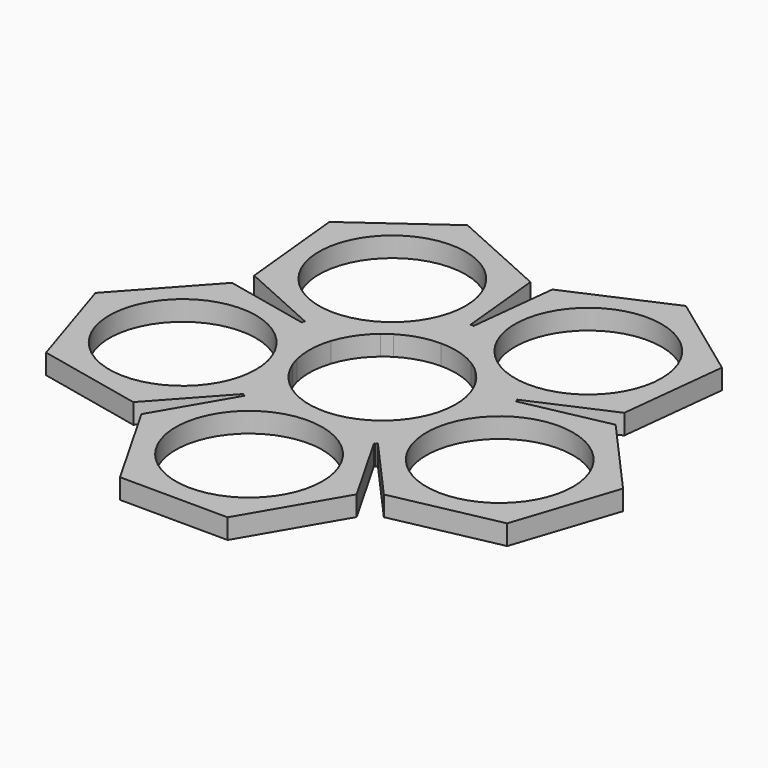
from build123d import *

# Parameters (mm, degrees)
F0_R     = 11
F1_DEPTH = 3


with BuildPart() as f1:
    # F0 (on Top) → F1 (new body)
    with BuildSketch(Plane.XY):
        Polygon((9.692502, -13.691952), (9.947785, -13.691952), (10.0425, -13.400449), (18.702897, -23.105726), (34.559387, -19.809369), (39.632903, -4.429067), (28.849928, 7.654877), (16.016968, 4.987071), (16.095854, 5.22986), (15.847887, 5.410019), (27.754365, 10.64745), (29.519267, 26.746499), (16.459534, 36.324473), (1.634898, 29.803399), (0.206528, 16.774131), (0, 16.924183), (-0.247967, 16.744024), (-1.549757, 29.686213), (-16.315477, 36.339614), (-29.460351, 26.878826), (-27.839506, 10.764637), (-15.889326, 5.379912), (-16.095854, 5.22986), (-16.001139, 4.938357), (-28.712167, 7.699638), (-39.602786, -4.287382), (-34.667032, -19.712445), (-18.840659, -23.150488), (-10.026672, -13.449163), (-9.947785, -13.691952), (-9.641281, -13.691952), (-16.195339, -24.927575), (-8.160391, -38.989362), (8.034947, -39.061787), (16.195339, -25.072425), align=None)
        with Locations((0, -25)):
            Circle(F0_R, mode=Mode.SUBTRACT)
        with Locations((-23.776413, -7.725425)):
            Circle(F0_R, mode=Mode.SUBTRACT)
        with Locations((23.776413, -7.725425)):
            Circle(F0_R, mode=Mode.SUBTRACT)
        with BuildLine():
            ThreePointArc((-0.804417, -10.970548), (-3.77969, -10.330244), (-6.465638, -8.899187))
            ThreePointArc((-6.465638, -8.899187), (-8.686922, -6.74814), (-10.221788, -4.063872))
            ThreePointArc((-10.221788, -4.063872), (-10.476718, -3.352369), (-10.682189, -2.62504))
            ThreePointArc((-10.682189, -2.62504), (-10.992634, 0.402478), (-10.461622, 3.399187))
            ThreePointArc((-10.461622, 3.399187), (-9.102269, 6.176464), (-7.023678, 8.465692))
            ThreePointArc((-7.023678, 8.465692), (-6.425776, 8.928012), (-5.797539, 9.348184))
            ThreePointArc((-5.797539, 9.348184), (-3.014132, 10.578989), (0, 11))
            ThreePointArc((0, 11), (3.06141, 10.565404), (5.880916, 9.295958))
            ThreePointArc((5.880916, 9.295958), (6.50537, 8.870184), (7.099113, 8.402535))
            ThreePointArc((7.099113, 8.402535), (9.129799, 6.135697), (10.461622, 3.399187))
            ThreePointArc((10.461622, 3.399187), (10.994324, 0.353315), (10.658284, -2.720474))
            ThreePointArc((10.658284, -2.720474), (10.446316, -3.445937), (10.185032, -4.155131))
            ThreePointArc((10.185032, -4.155131), (8.656658, -6.78692), (6.465638, -8.899187))
            ThreePointArc((6.465638, -8.899187), (3.733456, -10.347043), (0.706266, -10.977303))
            ThreePointArc((0.706266, -10.977303), (-0.049191, -10.99989), (-0.804417, -10.970548))
        make_face(mode=Mode.SUBTRACT)
        with Locations((-14.694631, 20.225425)):
            Circle(F0_R, mode=Mode.SUBTRACT)
        with Locations((14.694631, 20.225425)):
            Circle(F0_R, mode=Mode.SUBTRACT)
    extrude(amount=F1_DEPTH)


solid = f1.part
